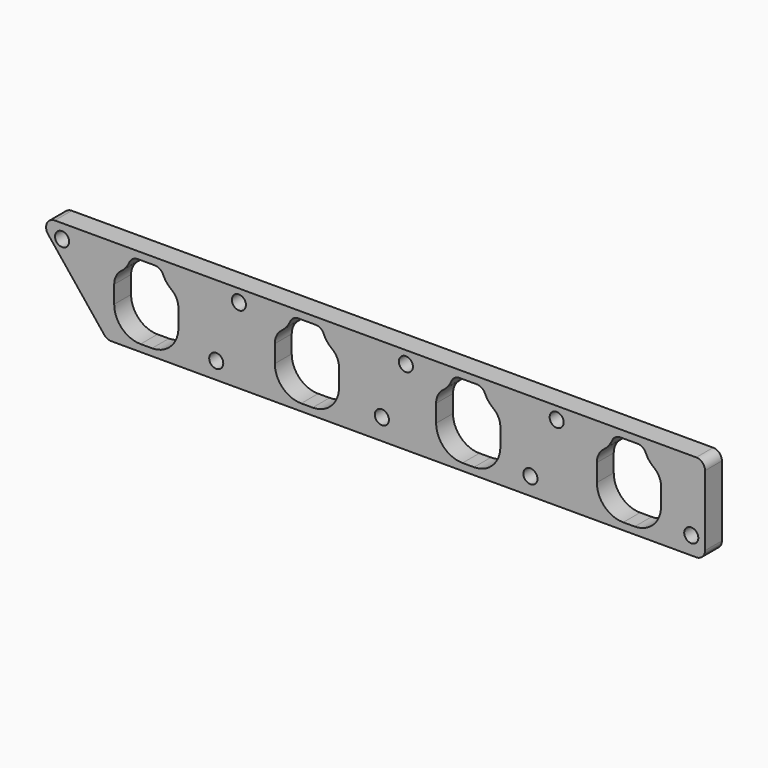
from build123d import *

# Parameters (mm, degrees)
F0_R     = 4
F1_DEPTH = 12


with BuildPart() as f1:
    # F0 (on Front) → F1 (new body)
    with BuildSketch(Plane.XZ):
        with BuildLine():
            Line((183.606194, 50), (-180.990682, 50))
            ThreePointArc((-180.990682, 50), (-185.497198, 47.165944), (-184.895026, 41.876525))
            Line((-184.895026, 41.876525), (-152.895026, 1.876525))
            ThreePointArc((-152.895026, 1.876525), (-151.156626, 0.493484), (-148.990682, 0))
            Line((-148.990682, 0), (183.606194, 0))
            ThreePointArc((183.606194, 0), (187.141728, 1.464466), (188.606194, 5))
            Line((188.606194, 5), (188.606194, 45))
            ThreePointArc((188.606194, 45), (187.141728, 48.535534), (183.606194, 50))
        make_face()
        with Locations((-89.263029, 9.591162)):
            Circle(F0_R, mode=Mode.SUBTRACT)
        with BuildLine():
            Line((-133.928709, 46), (-124.089315, 46))
            ThreePointArc((-124.089315, 46), (-121.350702, 45.1833), (-119.506739, 43))
            ThreePointArc((-119.506739, 43), (-117.521867, 39.692195), (-114.759012, 37))
            ThreePointArc((-114.759012, 37), (-111.81474, 33.472136), (-110.759012, 29))
            Line((-110.759012, 29), (-110.759012, 19))
            ThreePointArc((-110.759012, 19), (-115.15241, 8.393398), (-125.759012, 4))
            Line((-125.759012, 4), (-132.259012, 4))
            ThreePointArc((-132.259012, 4), (-142.865614, 8.393398), (-147.259012, 19))
            Line((-147.259012, 19), (-147.259012, 29))
            ThreePointArc((-147.259012, 29), (-146.203284, 33.472136), (-143.259012, 37))
            ThreePointArc((-143.259012, 37), (-140.496156, 39.692195), (-138.511285, 43))
            ThreePointArc((-138.511285, 43), (-136.667322, 45.1833), (-133.928709, 46))
        make_face(mode=Mode.SUBTRACT)
        with BuildLine():
            Line((-42.617198, 46), (-32.777804, 46))
            ThreePointArc((-32.777804, 46), (-30.039191, 45.1833), (-28.195228, 43))
            ThreePointArc((-28.195228, 43), (-26.210357, 39.692195), (-23.447501, 37))
            ThreePointArc((-23.447501, 37), (-20.503229, 33.472136), (-19.447501, 29))
            Line((-19.447501, 29), (-19.447501, 19))
            ThreePointArc((-19.447501, 19), (-23.840899, 8.393398), (-34.447501, 4))
            Line((-34.447501, 4), (-40.947501, 4))
            ThreePointArc((-40.947501, 4), (-51.554103, 8.393398), (-55.947501, 19))
            Line((-55.947501, 19), (-55.947501, 29))
            ThreePointArc((-55.947501, 29), (-54.891773, 33.472136), (-51.947501, 37))
            ThreePointArc((-51.947501, 37), (-49.184646, 39.692195), (-47.199774, 43))
            ThreePointArc((-47.199774, 43), (-45.355811, 45.1833), (-42.617198, 46))
        make_face(mode=Mode.SUBTRACT)
        with Locations((4.899797, 11.972248)):
            Circle(F0_R, mode=Mode.SUBTRACT)
        with Locations((89.348912, 9.877115)):
            Circle(F0_R, mode=Mode.SUBTRACT)
        with Locations((180.782542, 10.067379)):
            Circle(F0_R, mode=Mode.SUBTRACT)
        with BuildLine():
            Line((49.082204, 46), (58.921599, 46))
            ThreePointArc((58.921599, 46), (61.660212, 45.1833), (63.504174, 43))
            ThreePointArc((63.504174, 43), (65.489046, 39.692195), (68.251902, 37))
            ThreePointArc((68.251902, 37), (71.196173, 33.472136), (72.251902, 29))
            Line((72.251902, 29), (72.251902, 19))
            ThreePointArc((72.251902, 19), (67.858503, 8.393398), (57.251902, 4))
            Line((57.251902, 4), (50.751902, 4))
            ThreePointArc((50.751902, 4), (40.1453, 8.393398), (35.751902, 19))
            Line((35.751902, 19), (35.751902, 29))
            ThreePointArc((35.751902, 29), (36.80763, 33.472136), (39.751902, 37))
            ThreePointArc((39.751902, 37), (42.514757, 39.692195), (44.499629, 43))
            ThreePointArc((44.499629, 43), (46.343592, 45.1833), (49.082204, 46))
        make_face(mode=Mode.SUBTRACT)
        with Locations((-176.895979, 42)):
            Circle(F0_R, mode=Mode.SUBTRACT)
        with Locations((-76.374538, 43)):
            Circle(F0_R, mode=Mode.SUBTRACT)
        with BuildLine():
            Line((140.436497, 46), (150.275891, 46))
            ThreePointArc((150.275891, 46), (153.014504, 45.1833), (154.858467, 43))
            ThreePointArc((154.858467, 43), (156.843338, 39.692195), (159.606194, 37))
            ThreePointArc((159.606194, 37), (162.550466, 33.472136), (163.606194, 29))
            Line((163.606194, 29), (163.606194, 19))
            ThreePointArc((163.606194, 19), (159.212796, 8.393398), (148.606194, 4))
            Line((148.606194, 4), (142.106194, 4))
            ThreePointArc((142.106194, 4), (131.499592, 8.393398), (127.106194, 19))
            Line((127.106194, 19), (127.106194, 29))
            ThreePointArc((127.106194, 29), (128.161922, 33.472136), (131.106194, 37))
            ThreePointArc((131.106194, 37), (133.869049, 39.692195), (135.853921, 43))
            ThreePointArc((135.853921, 43), (137.697884, 45.1833), (140.436497, 46))
        make_face(mode=Mode.SUBTRACT)
        with Locations((18.551346, 43)):
            Circle(F0_R, mode=Mode.SUBTRACT)
        with Locations((104.270376, 43)):
            Circle(F0_R, mode=Mode.SUBTRACT)
    extrude(amount=F1_DEPTH)


solid = f1.part
